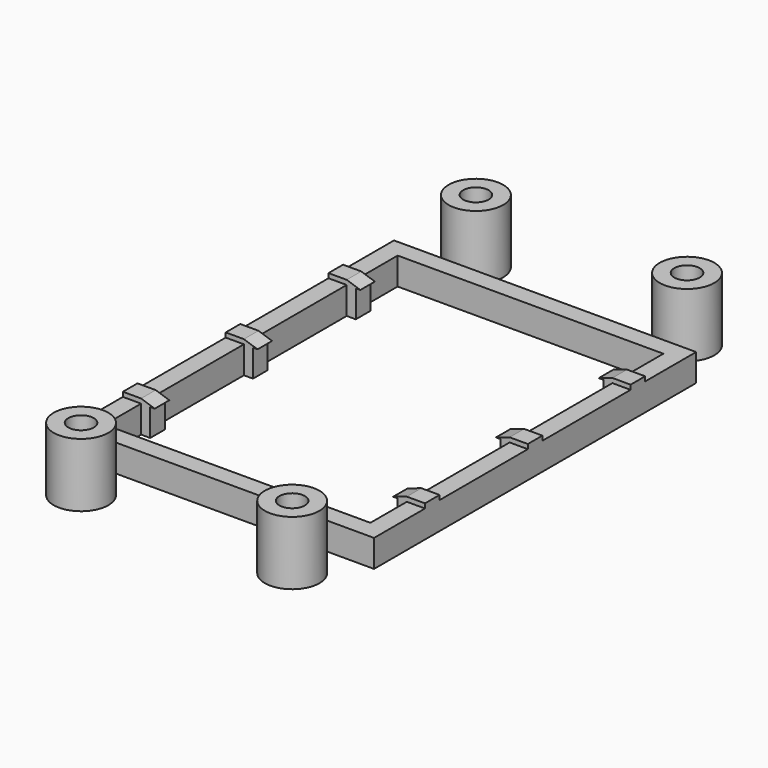
from build123d import *

# Parameters (mm, degrees)
F0_W     = 33.2
F0_H     = 44.24
F0_W_2   = 1
F0_H_2   = 2
F1_DEPTH = 3
F2_W     = 2
F2_H     = 0.5
F3_DEPTH = 2
F5_DEPTH = 2
F7_DEPTH = 2
F8_R     = 3
F8_R_2   = 1.4
F9_DEPTH = 7


with BuildPart() as f1:
    # F0 (on Top) → F1 (new body)
    with BuildSketch(Plane.XY):
        with Locations((14.6, 20.12)):
            Rectangle(F0_W, F0_H)
        Polygon((29.2, 0), (0, 0), (0, 5), (0, 7), (0, 19.12), (0, 21.12), (0, 33.24), (0, 35.24), (0, 40.24), (29.2, 40.24), (29.2, 35.24), (29.2, 33.24), (29.2, 21.12), (29.2, 19.12), (29.2, 7), (29.2, 5), align=None, mode=Mode.SUBTRACT)
        with Locations((0.5, 34.24)):
            Rectangle(F0_W_2, F0_H_2)
        with Locations((0.5, 20.12)):
            Rectangle(F0_W_2, F0_H_2)
        with Locations((0.5, 6)):
            Rectangle(F0_W_2, F0_H_2)
        with Locations((28.7, 6)):
            Rectangle(F0_W_2, F0_H_2)
        with Locations((28.7, 20.12)):
            Rectangle(F0_W_2, F0_H_2)
        with Locations((28.7, 34.24)):
            Rectangle(F0_W_2, F0_H_2)
    extrude(amount=F1_DEPTH)

    # F2 (on face) → F3 (join, through all)
    with BuildSketch(Plane.XZ.offset(-5)):
        Polygon((27.7, 3), (28.2, 3), (29.2, 3), (29.2, 3.5), align=None)
        with Locations((30.2, 3.25)):
            Rectangle(F2_W, F2_H)
        Polygon((1, 3), (1.5, 3), (0, 3.5), (0, 3), align=None)
        with Locations((-1, 3.25)):
            Rectangle(F2_W, F2_H)
    extrude(amount=-F3_DEPTH)

    # F4 (on face) → F5 (join, through all)
    with BuildSketch(Plane.XZ.offset(-19.12)):
        Polygon((28.2, 3), (28.2, 0), (29.2, 0), (29.2, 3), (31.2, 3), (31.2, 3.5), (29.2, 3.5), (27.7, 3), align=None)
        Polygon((-2, 3), (0, 3), (1, 3), (1.5, 3), (0, 3.5), (-2, 3.5), align=None)
    extrude(amount=-F5_DEPTH)

    # F6 (on face) → F7 (join, through all)
    with BuildSketch(Plane.XZ.offset(-33.24)):
        Polygon((-2, 3), (0, 3), (1, 3), (1.5, 3), (0, 3.5), (-2, 3.5), align=None)
        Polygon((28.2, 3), (28.2, 0), (29.2, 0), (29.2, 3), (31.2, 3), (31.2, 3.5), (29.2, 3.5), (27.7, 3), align=None)
    extrude(amount=-F7_DEPTH)


with BuildPart() as f9:
    # F8 (on Top) → F9 (new body)
    with BuildSketch(Plane.XY):
        with Locations((3, 47.24)):
            Circle(F8_R)
        with Locations((3, 47.24)):
            Circle(F8_R_2, mode=Mode.SUBTRACT)
    extrude(amount=F9_DEPTH)


with BuildPart() as f9b:
    # F8 (on Top) → F9, piece 2 (new body)
    with BuildSketch(Plane.XY):
        with Locations((26.2, 47.24)):
            Circle(F8_R)
        with Locations((26.2, 47.24)):
            Circle(F8_R_2, mode=Mode.SUBTRACT)
    extrude(amount=F9_DEPTH)


with BuildPart() as f9c:
    # F8 (on Top) → F9, piece 3 (new body)
    with BuildSketch(Plane.XY):
        with Locations((3, -7)):
            Circle(F8_R)
        with Locations((3, -7)):
            Circle(F8_R_2, mode=Mode.SUBTRACT)
    extrude(amount=F9_DEPTH)


with BuildPart() as f9d:
    # F8 (on Top) → F9, piece 4 (new body)
    with BuildSketch(Plane.XY):
        with Locations((26.2, -7)):
            Circle(F8_R)
        with Locations((26.2, -7)):
            Circle(F8_R_2, mode=Mode.SUBTRACT)
    extrude(amount=F9_DEPTH)


solid = Compound([f1.part, f9.part, f9b.part, f9c.part, f9d.part])
